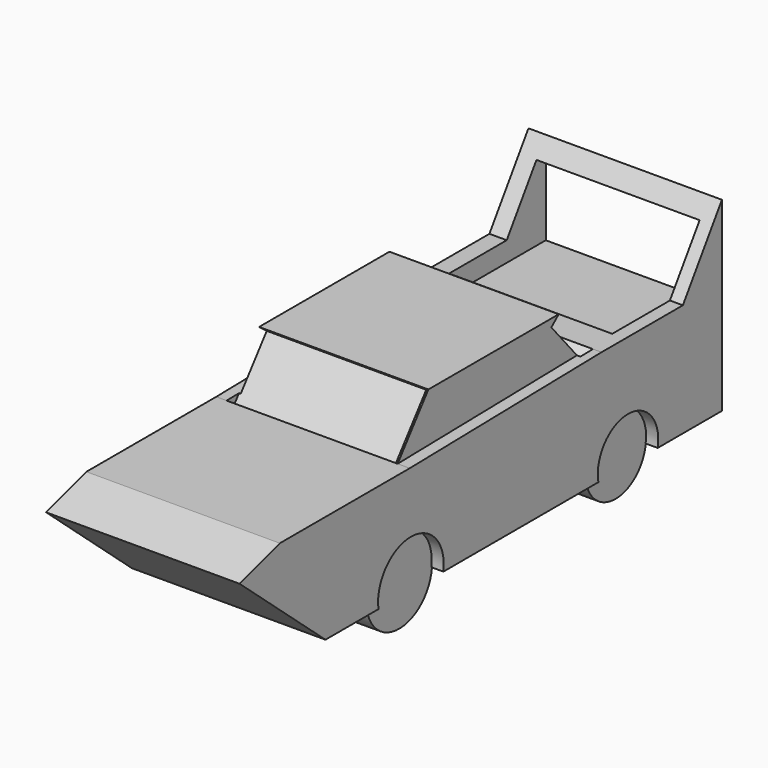
from build123d import *

# Parameters (mm, degrees)
F1_DEPTH  = 45.72
F3_DEPTH  = 40.64
F5_DEPTH  = 25.4
F6_DEPTH  = 25.4
F7_DEPTH  = 25.4
F8_DEPTH  = 25.4
F9_DEPTH  = 2.54
F10_DEPTH = 2.54
F11_W     = 35.5600006878
F11_H     = 13.2107668169
F12_DEPTH = 2.54
F13_W     = 37.026392296
F13_H     = 12.4482874382
F14_DEPTH = 2.54
F17_DEPTH = 2.54
F18_DEPTH = 2.54
F19_W     = 34.2769082636
F19_H     = 15.8553607762
F20_DEPTH = 25.4


with BuildPart() as f1:
    # F0 (on Right) → F1 (new body)
    with BuildSketch(Plane.YZ):
        Polygon((-28.6284703761, 3.1933195423), (21.7250119895, 4.1742315516), (13.6597361416, 13.656382449), (-20.5631945282, 13.656382449), align=None)
        with BuildLine():
            Line((53.3399991691, -19.5213407278), (53.3399991691, 19.5213407278))
            Line((53.3399991691, 19.5213407278), (43.0870950222, 4.1742315516))
            Line((43.0870950222, 4.1742315516), (21.7250119895, 4.1742315516))
            Line((21.7250119895, 4.1742315516), (-28.6284703761, 3.1933195423))
            Line((-28.6284703761, 3.1933195423), (-62.7424120903, 3.1933195423))
            Line((-62.7424120903, 3.1933195423), (-73.3144581318, 0))
            Line((-73.3144581318, 0), (-50.7534816861, -19.5213407278))
            Line((-50.7534816861, -19.5213407278), (-36.8430949748, -19.5213407278))
            ThreePointArc((-36.8430949748, -19.5213407278), (-28.3196913078, -9.6037565649), (-19.7962876409, -19.5213407278))
            Line((-19.7962876409, -19.5213407278), (20.896082744, -19.5213407278))
            ThreePointArc((20.896082744, -19.5213407278), (28.6862896755, -10.0693031936), (36.4764966071, -19.5213407278))
            Line((36.4764966071, -19.5213407278), (53.3399991691, -19.5213407278))
        make_face()
    extrude(amount=F1_DEPTH)

    # F2 (on Right) → F3 (join)
    with BuildSketch(Plane.YZ):
        with BuildLine():
            ThreePointArc((20.7127835602, -19.8879390955), (28.5946400836, -26.5695137941), (36.4764966071, -19.8879390955))
            ThreePointArc((36.4764966071, -19.8879390955), (28.5946400836, -10.2776465209), (20.7127835602, -19.8879390955))
        make_face()
        with BuildLine():
            ThreePointArc((-36.8430912495, -19.704638049), (-28.1442910168, -27.4854506573), (-19.6129884571, -19.5213407278))
            ThreePointArc((-19.6129884571, -19.5213407278), (-28.3323258535, -9.8100174081), (-36.8430912495, -19.704638049))
        make_face()
    extrude(amount=F3_DEPTH)

    # F4: F1 across plane


with BuildPart() as f1_1:
    add(f1.part)
    add(f1.part.mirror(Plane.YZ))

    # F5 (cut): faces of the model
    f5_faces = [f1_1.faces().sort_by_distance(p)[0] for p in [
        (45.72, -3.0719009066, -4.1533515012),
        (40.64, -28.256328602, -18.6447266271),
    ]]
    extrude(f5_faces, amount=-F5_DEPTH, mode=Mode.SUBTRACT)

    # F6 (cut): a face of the model
    f6_faces = [f1_1.faces().sort_by_distance(p)[0] for p in [
        (40.64, 28.6216517019, -18.4204608425),
    ]]
    extrude(f6_faces, amount=-F6_DEPTH, mode=Mode.SUBTRACT)

    # F7 (cut): a face of the model
    f7_faces = [f1_1.faces().sort_by_distance(p)[0] for p in [
        (-45.72, -3.0719009066, -4.1533515012),
    ]]
    extrude(f7_faces, amount=-F7_DEPTH, mode=Mode.SUBTRACT)

    # F8 (cut): faces of the model
    f8_faces = [f1_1.faces().sort_by_distance(p)[0] for p in [
        (-40.64, 28.6216517019, -18.4204608425),
        (-40.64, -28.256328602, -18.6447266271),
    ]]
    extrude(f8_faces, amount=-F8_DEPTH, mode=Mode.SUBTRACT)

    # F9 (add): faces of the model
    f9_faces = [f1_1.faces().sort_by_distance(p)[0] for p in [
        (15.24, -28.256328602, -18.6447266271),
        (15.24, 28.6216517019, -18.4204608425),
    ]]
    extrude(f9_faces, amount=F9_DEPTH)

    # F10 (add): faces of the model
    f10_faces = [f1_1.faces().sort_by_distance(p)[0] for p in [
        (-15.24, 28.6216517019, -18.4204608425),
        (-15.24, -28.256328602, -18.6447266271),
    ]]
    extrude(f10_faces, amount=F10_DEPTH)

    # F11 (on face) → F12 (cut)
    with BuildSketch(Plane(origin=(0, -19.5021350286, 15.0328923789), x_dir=(1, 0, 0), z_dir=(0, -0.7920102634, 0.6105077744))):
        with Locations((-0.3665983677, -8.3433784743)):
            Rectangle(F11_W, F11_H)
    extrude(amount=-F12_DEPTH, mode=Mode.SUBTRACT)

    # F13 (on face) → F14 (cut)
    with BuildSketch(Plane(origin=(0, 14.6654159011, 12.4740289357), x_dir=(-1, 0, 0), z_dir=(0, 0.761723325, 0.6479024434))):
        with Locations((9.313e-07, -4.6719350962)):
            Rectangle(F13_W, F13_H)
    extrude(amount=-F14_DEPTH, mode=Mode.SUBTRACT)

    # F16 (on face) → F17 (cut)
    with BuildSketch(Plane(origin=(-20.32, 0, 0), x_dir=(0, -1, 0), z_dir=(-1, 0, 0))):
        Polygon((-13.6597361416, 13.656382449), (-21.7250119895, 4.1742315516), (28.6284703761, 3.1933195423), (20.5631945282, 13.656382449), align=None)
    extrude(amount=-F17_DEPTH, mode=Mode.SUBTRACT)

    # F15 (on face) → F18 (cut)
    with BuildSketch(Plane.YZ.offset(20.32)):
        Polygon((-20.5631945282, 13.656382449), (-28.6284703761, 3.1933195423), (21.7250119895, 4.1742315516), (13.6597361416, 13.656382449), align=None)
    extrude(amount=-F18_DEPTH, mode=Mode.SUBTRACT)

    # F19 (on face) → F20 (cut)
    with BuildSketch(Plane(origin=(0, 53.3399991691, 0), x_dir=(-1, 0, 0), z_dir=(0, 1, 0))):
        with Locations((-0.4582470283, 7.9276803881)):
            Rectangle(F19_W, F19_H)
    extrude(amount=-F20_DEPTH, mode=Mode.SUBTRACT)


solid = f1_1.part
